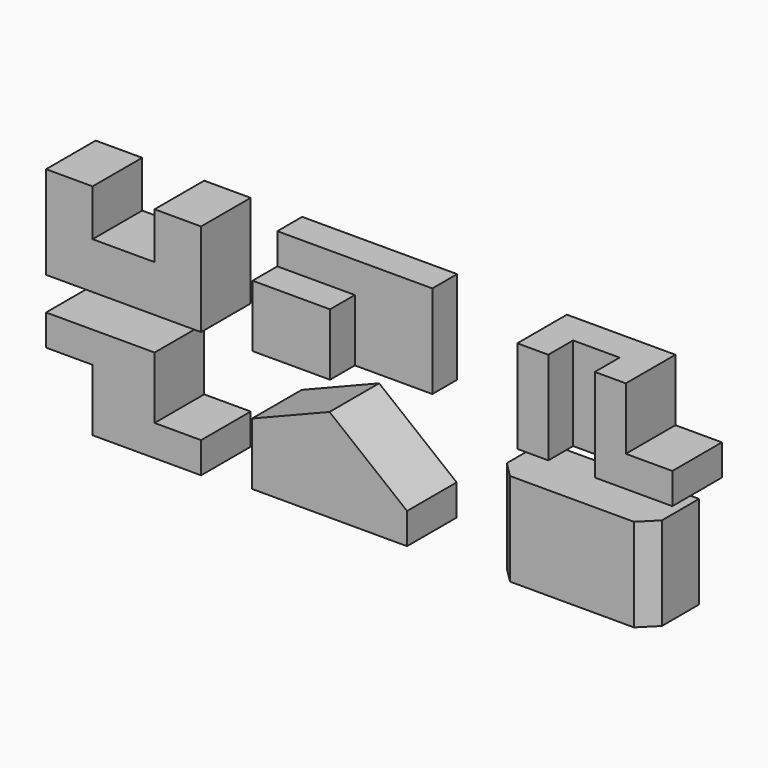
from build123d import *

# Parameters (mm, degrees)
F1_DEPTH  = 101.6
F2_W      = 254
F2_H      = 152.4
F3_DEPTH  = 101.6
F4_W      = 127
F4_H      = 50.8
F5_DEPTH  = 152.4
F6_W      = 127
F6_H      = 50.8
F7_DEPTH  = 50.8
F8_W      = 254
F8_H      = 152.4
F9_DEPTH  = 101.6
F10_W     = 76.2
F10_H     = 50.8
F11_DEPTH = 152.4
F12_W     = 76.2
F12_H     = 101.6
F13_DEPTH = 101.6
F14_W     = 254
F14_H     = 152.4
F15_DEPTH = 101.6
F16_W     = 76.2
F16_H     = 101.6
F17_DEPTH = 101.6
F18_W     = 76.2
F18_H     = 101.6
F19_DEPTH = 101.6
F20_W     = 254
F20_H     = 152.4
F21_DEPTH = 101.6
F23_DEPTH = 101.6
F25_DEPTH = 101.6
F26_W     = 254
F26_H     = 152.4
F27_DEPTH = 101.6
F29_DEPTH = 152.4


with BuildPart() as f1:
    # F0 (on Front) → F1 (new body)
    with BuildSketch(Plane.XZ):
        Polygon((0, 152.4), (0, 0), (254, 0), (254, 152.4), (177.8, 152.4), (177.8, 76.2), (76.2, 76.2), (76.2, 152.4), align=None)
    extrude(amount=F1_DEPTH)


with BuildPart() as f3:
    # F2 (on Front) → F3 (new body)
    with BuildSketch(Plane.XZ):
        with Locations((465.342793, 76.2)):
            Rectangle(F2_W, F2_H)
    extrude(amount=F3_DEPTH)

    # F4 (on face) → F5 (cut)
    with BuildSketch(Plane.XY.offset(152.4)):
        with Locations((528.842793, -76.2)):
            Rectangle(F4_W, F4_H)
    extrude(amount=-F5_DEPTH, mode=Mode.SUBTRACT)

    # F6 (on face) → F7 (cut)
    with BuildSketch(Plane.XY.offset(152.4)):
        with Locations((401.842793, -76.2)):
            Rectangle(F6_W, F6_H)
    extrude(amount=-F7_DEPTH, mode=Mode.SUBTRACT)


with BuildPart() as f9:
    # F8 (on Front) → F9 (new body)
    with BuildSketch(Plane.XZ):
        with Locations((899.202911, 76.2)):
            Rectangle(F8_W, F8_H)
    extrude(amount=F9_DEPTH)

    # F10 (on face) → F11 (cut)
    with BuildSketch(Plane.XY.offset(152.4)):
        with Locations((861.102911, -76.2)):
            Rectangle(F10_W, F10_H)
    extrude(amount=-F11_DEPTH, mode=Mode.SUBTRACT)

    # F12 (on face) → F13 (cut)
    with BuildSketch(Plane.XY.offset(152.4)):
        with Locations((988.102911, -50.8)):
            Rectangle(F12_W, F12_H)
    extrude(amount=-F13_DEPTH, mode=Mode.SUBTRACT)


with BuildPart() as f15:
    # F14 (on Front) → F15 (new body)
    with BuildSketch(Plane.XZ):
        with Locations((127, -130.457395)):
            Rectangle(F14_W, F14_H)
    extrude(amount=F15_DEPTH)

    # F16 (on face) → F17 (cut)
    with BuildSketch(Plane.XZ.offset(101.6)):
        with Locations((38.1, -155.857395)):
            Rectangle(F16_W, F16_H)
    extrude(amount=-F17_DEPTH, mode=Mode.SUBTRACT)

    # F18 (on face) → F19 (cut)
    with BuildSketch(Plane.XZ.offset(101.6)):
        with Locations((215.9, -105.057395)):
            Rectangle(F18_W, F18_H)
    extrude(amount=-F19_DEPTH, mode=Mode.SUBTRACT)


with BuildPart() as f21:
    # F20 (on Front) → F21 (new body)
    with BuildSketch(Plane.XZ):
        with Locations((464.506865, -122.901041)):
            Rectangle(F20_W, F20_H)
    extrude(amount=F21_DEPTH)

    # F22 (on face) → F23 (cut)
    with BuildSketch(Plane.XZ.offset(101.6)):
        Polygon((464.506865, -46.701041), (337.506865, -46.701041), (337.506865, -97.501041), align=None)
    extrude(amount=-F23_DEPTH, mode=Mode.SUBTRACT)

    # F24 (on face) → F25 (cut)
    with BuildSketch(Plane.XZ.offset(101.6)):
        Polygon((591.506865, -148.301041), (591.506865, -46.701041), (464.506865, -46.701041), align=None)
    extrude(amount=-F25_DEPTH, mode=Mode.SUBTRACT)


with BuildPart() as f27:
    # F26 (on Front) → F27 (new body)
    with BuildSketch(Plane.XZ):
        with Locations((861.753938, -119.147837)):
            Rectangle(F26_W, F26_H)
    extrude(amount=F27_DEPTH)

    # F28 (on face) → F29 (cut)
    with BuildSketch(Plane(origin=(0, 0, -195.347837), x_dir=(1, 0, 0), z_dir=(0, 0, -1))):
        Polygon((760.153938, 101.6), (734.753938, 101.6), (734.753938, 76.2), align=None)
        Polygon((988.753938, 101.6), (963.353938, 101.6), (988.753938, 76.2), align=None)
    extrude(amount=-F29_DEPTH, mode=Mode.SUBTRACT)


solid = Compound([f1.part, f3.part, f9.part, f15.part, f21.part, f27.part])
